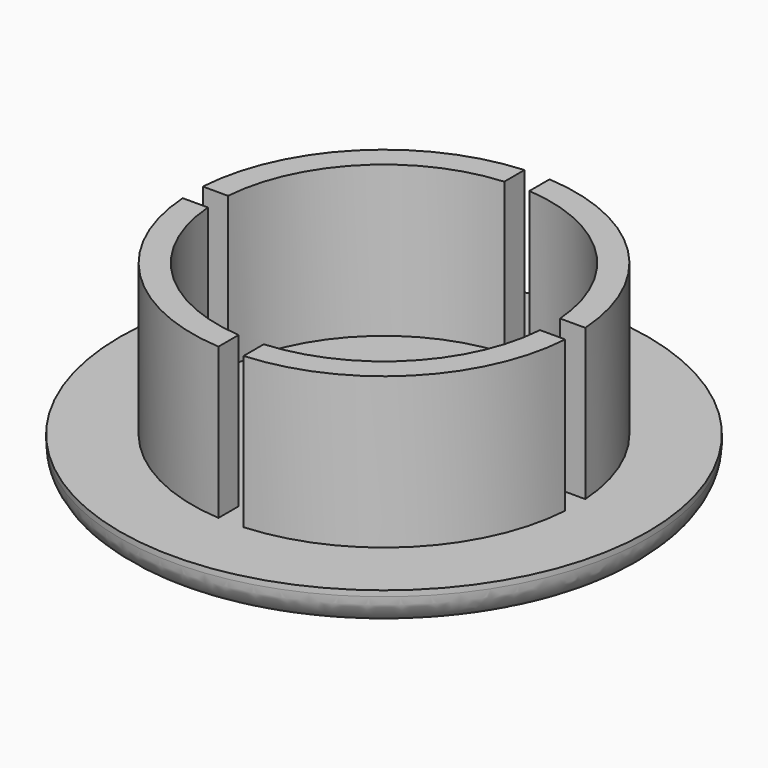
from build123d import *

# Parameters (mm, degrees)
F1_DEPTH = 6.35
F2_R     = 10.668
F3_DEPTH = 2.54
F4_DEPTH = 0.254
F6_SIZE2 = 7.62
F6_SIZE  = 1.524
F7_R     = 1.27


with BuildPart() as f1:
    # F0 (on Top) → F1 (new body)
    with BuildSketch(Plane.XY):
        with BuildLine():
            Line((6.711802813, 0.508), (7.7303263191, 0.508))
            ThreePointArc((7.7303263191, 0.508), (5.4779562339, 5.4779562339), (0.508, 7.7303263191))
            Line((0.508, 7.7303263191), (0.508, 6.711802813))
            ThreePointArc((0.508, 6.711802813), (4.7595357442, 4.7595357442), (6.711802813, 0.508))
        make_face()
    extrude(amount=F1_DEPTH)


with BuildPart() as f1b:
    # F0 (on Top) → F1, piece 2 (new body)
    with BuildSketch(Plane.XY):
        with BuildLine():
            ThreePointArc((-0.508, 7.7303263191), (-5.4779562339, 5.4779562339), (-7.7303263191, 0.508))
            Line((-7.7303263191, 0.508), (-6.711802813, 0.508))
            ThreePointArc((-6.711802813, 0.508), (-4.7595357442, 4.7595357442), (-0.508, 6.711802813))
            Line((-0.508, 6.711802813), (-0.508, 7.7303263191))
        make_face()
    extrude(amount=F1_DEPTH)


with BuildPart() as f1c:
    # F0 (on Top) → F1, piece 3 (new body)
    with BuildSketch(Plane.XY):
        with BuildLine():
            Line((-6.711802813, -0.508), (-7.7303263191, -0.508))
            ThreePointArc((-7.7303263191, -0.508), (-5.4779562339, -5.4779562339), (-0.508, -7.7303263191))
            Line((-0.508, -7.7303263191), (-0.508, -6.711802813))
            ThreePointArc((-0.508, -6.711802813), (-4.7595357442, -4.7595357442), (-6.711802813, -0.508))
        make_face()
    extrude(amount=F1_DEPTH)


with BuildPart() as f1d:
    # F0 (on Top) → F1, piece 4 (new body)
    with BuildSketch(Plane.XY):
        with BuildLine():
            ThreePointArc((0.508, -7.7303263191), (5.4779562339, -5.4779562339), (7.7303263191, -0.508))
            Line((7.7303263191, -0.508), (6.711802813, -0.508))
            ThreePointArc((6.711802813, -0.508), (4.7595357442, -4.7595357442), (0.508, -6.711802813))
            Line((0.508, -6.711802813), (0.508, -7.7303263191))
        make_face()
    extrude(amount=F1_DEPTH)


with BuildPart() as f3:
    # F2 (on Top) → F3 (new body)
    with BuildSketch(Plane.XY):
        Circle(F2_R)
    extrude(amount=-F3_DEPTH)


with BuildPart() as f4:
    # F4 (new): a face of the model
    f4_faces = [f3.part.faces().sort_by_distance(p)[0] for p in [
        (0, 0, 0),
    ]]
    extrude(f4_faces, amount=F4_DEPTH)


with BuildPart() as f1c_1:
    add(f1c.part)

    # F5: union F1b, F1, F1d, F3, F4
    add(f1b.part)
    add(f1.part)
    add(f1d.part)
    add(f3.part)
    add(f4.part)

    # F6
    f6_edges = [f1c_1.edges().sort_by_distance(p)[0] for p in [
        (-10.668, 0, -2.54),
    ]]
    f6_side = f1c_1.faces().sort_by_distance((-10.668, 0, -1.143))[0]
    chamfer(f6_edges, length=F6_SIZE, length2=F6_SIZE2, reference=f6_side)

    # F7
    f7_edges = [f1c_1.edges().sort_by_distance(p)[0] for p in [
        (-10.668, 0, -1.016),
        (-3.048, 0, -2.54),
    ]]
    fillet(f7_edges, radius=F7_R)


solid = f1c_1.part
